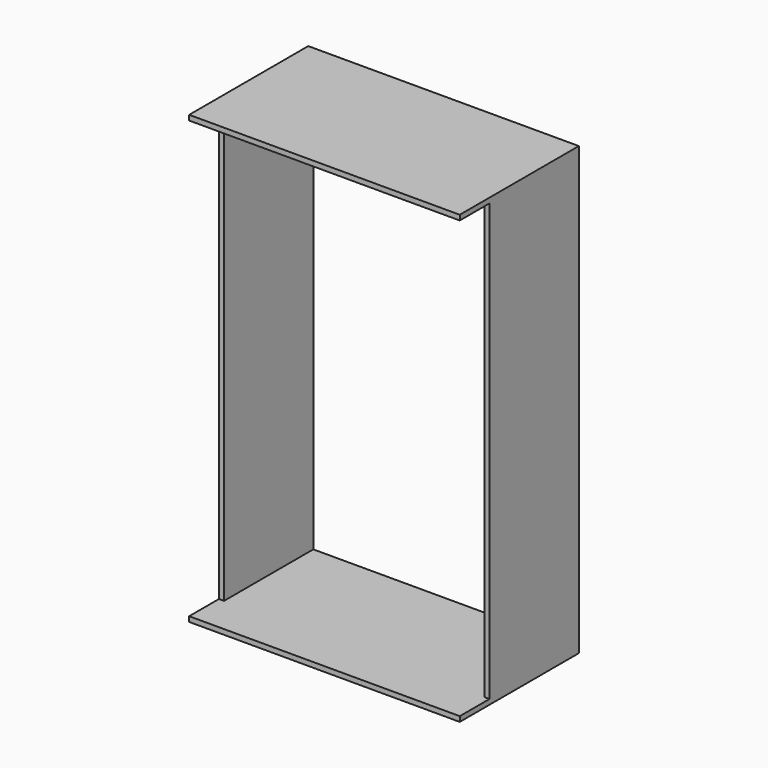
from build123d import *

# Parameters (mm, degrees)
F1_DEPTH = 558.8
F0_W     = 19.05
F0_H     = 1638.3
F2_DEPTH = 419.1
F3_DEPTH = 558.8
F0_W_2   = 914.4
F0_H_2   = 38.1
F4_DEPTH = 19.05


with BuildPart() as f1:
    # F0 (on Front) → F1 (new body)
    with BuildSketch(Plane.XZ):
        Polygon((0, 120.65), (0, 101.6), (50.8, 101.6), (965.2, 101.6), (1016, 101.6), (1016, 120.65), (996.95, 120.65), (19.05, 120.65), align=None)
    extrude(amount=F1_DEPTH)

    # F0 (on Front) → F2 (join)
    with BuildSketch(Plane.XZ):
        with Locations((1006.475, 939.8)):
            Rectangle(F0_W, F0_H)
        with Locations((9.525, 939.8)):
            Rectangle(F0_W, F0_H)
    extrude(amount=F2_DEPTH)

    # F0 (on Front) → F3 (join)
    with BuildSketch(Plane.XZ):
        Polygon((0, 1778), (0, 1758.95), (19.05, 1758.95), (996.95, 1758.95), (1016, 1758.95), (1016, 1778), align=None)
    extrude(amount=F3_DEPTH)

    # F0 (on Front) → F4 (join)
    with BuildSketch(Plane.XZ):
        with Locations((508, 82.55)):
            Rectangle(F0_W_2, F0_H_2)
    extrude(amount=F4_DEPTH)


solid = f1.part
